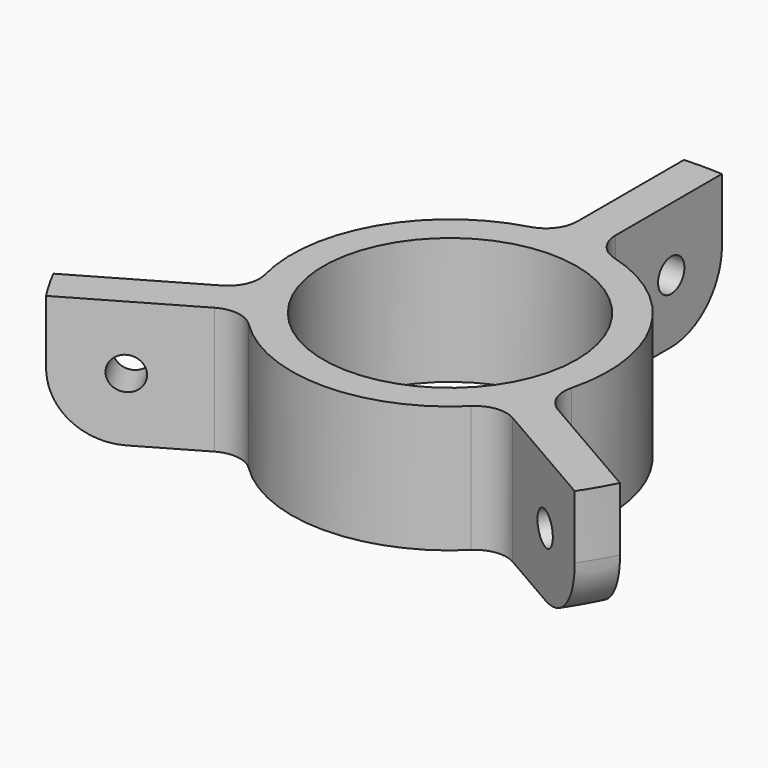
from build123d import *

# Parameters (mm, degrees)
SKETCH_R              = 50
SKETCH_R_2            = 20
PAD_DEPTH             = 20
POCKET_DEPTH          = 305.658137
POLARPATTERN_COUNT    = 3
SKETCH003_R           = 2.6
POCKET002_DEPTH       = 287.850495
POLARPATTERN001_COUNT = 3
FILLET_R              = 5
FILLET001_R           = 10


with BuildPart() as part:
    # Sketch → Pad (new body)
    with BuildSketch(Plane.XY):
        Circle(SKETCH_R)
        Circle(SKETCH_R_2, mode=Mode.SUBTRACT)
    extrude(amount=PAD_DEPTH)

    # Sketch001 (on Face4 of Pad) → Pocket (cut, through all)
    with BuildSketch(Plane.XY.offset(20)):
        with BuildLine():
            ThreePointArc((22.994185, -9.811597), (21.650635, 12.5), (3, 24.819347))
            Line((3, 55.952225), (3, 24.819347))
            ThreePointArc((49.956048, -25.378036), (48.525649, 28.016297), (3, 55.952225))
            Line((22.994185, -9.811597), (49.956048, -25.378036))
        make_face()
    pocket = extrude(amount=-POCKET_DEPTH, mode=Mode.SUBTRACT)

    # PolarPattern: Pocket ×3 about axis
    polarpattern_axis = Axis((0, 0, 20), (0, 0, 1))
    for i in range(1, POLARPATTERN_COUNT):
        add(pocket.rotate(polarpattern_axis, i * 360 / POLARPATTERN_COUNT), mode=Mode.SUBTRACT)

    # Sketch003 → Pocket002 (cut, through all)
    with BuildSketch(Plane.YZ.offset(3)):
        with Locations((39.909919, 10)):
            Circle(SKETCH003_R)
    pocket002 = extrude(amount=-POCKET002_DEPTH, mode=Mode.SUBTRACT)

    # PolarPattern001: Pocket002 ×3 about axis
    polarpattern001_axis = Axis((0, 0, 0), (0, 0, 1))
    for i in range(1, POLARPATTERN001_COUNT):
        add(pocket002.rotate(polarpattern001_axis, i * 360 / POLARPATTERN001_COUNT), mode=Mode.SUBTRACT)

    # Fillet
    fillet_edges = [part.edges().sort_by_distance(p)[0] for p in [
        (-22.994185, -9.811597, 10),
        (-19.994185, -15.00775, 10),
        (19.994185, -15.00775, 10),
        (22.994185, -9.811597, 10),
        (3, 24.819347, 10),
        (-3, 24.819347, 10),
    ]]
    fillet(fillet_edges, radius=FILLET_R)

    # Fillet001
    fillet001_edges = [part.edges().sort_by_distance(p)[0] for p in [
        (0, 50, 0),
        (-43.30127, -25, 0),
        (43.30127, -25, 0),
    ]]
    fillet(fillet001_edges, radius=FILLET001_R)


solid = part.part
